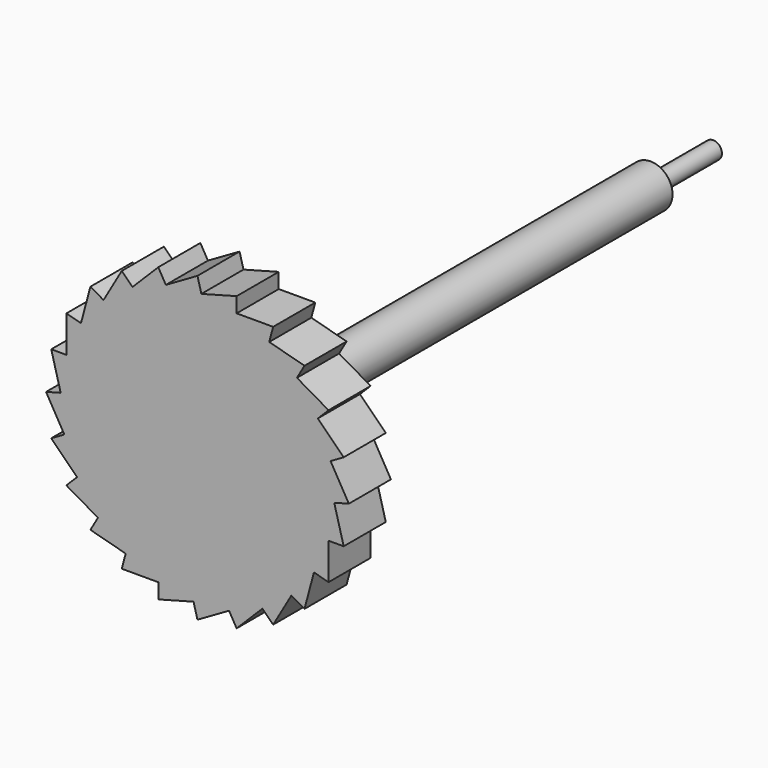
from build123d import *

# Parameters (mm, degrees)
F1_DEPTH = 3.81
F2_R     = 1.5875
F3_DEPTH = 37.1983
F4_R     = 0.635
F5_DEPTH = 5.6642


with BuildPart() as f1:
    # F0 (on Front) → F1 (new body)
    with BuildSketch(Plane.XZ):
        Polygon((0.283386, 9.90249), (0, 10.9601), (-2.289223, 9.638416), (-2.836683, 10.586644), (-4.705826, 8.717501), (-5.48005, 9.491725), (-6.801734, 7.202502), (-7.749961, 7.749961), (-8.434115, 5.196664), (-9.491725, 5.48005), (-9.491725, 2.836683), (-10.586644, 2.836683), (-9.90249, 0.283386), (-10.9601, 0), (-9.638416, -2.289223), (-10.586644, -2.836683), (-8.717501, -4.705826), (-9.491725, -5.48005), (-7.202502, -6.801734), (-7.749961, -7.749961), (-5.196664, -8.434115), (-5.48005, -9.491725), (-2.836683, -9.491725), (-2.836683, -10.586644), (-0.283386, -9.90249), (0, -10.9601), (2.289223, -9.638416), (2.836683, -10.586644), (4.705826, -8.717501), (5.48005, -9.491725), (6.801734, -7.202502), (7.749961, -7.749961), (8.434115, -5.196664), (9.491725, -5.48005), (9.491725, -2.836683), (10.586644, -2.836683), (9.90249, -0.283386), (10.9601, 0), (9.638416, 2.289223), (10.586644, 2.836683), (8.717501, 4.705826), (9.491725, 5.48005), (7.202502, 6.801734), (7.749961, 7.749961), (5.196664, 8.434115), (5.48005, 9.491725), (2.836683, 9.491725), (2.836683, 10.586644), align=None)
    extrude(amount=F1_DEPTH)

    # F2 (on Front) → F3 (join)
    with BuildSketch(Plane.XZ):
        Circle(F2_R)
    extrude(amount=-F3_DEPTH)

    # F4 (on face) → F5 (join)
    with BuildSketch(Plane(origin=(0, 37.1983, 0), x_dir=(-1, 0, 0), z_dir=(0, 1, 0))):
        Circle(F4_R)
    extrude(amount=F5_DEPTH)


solid = f1.part
